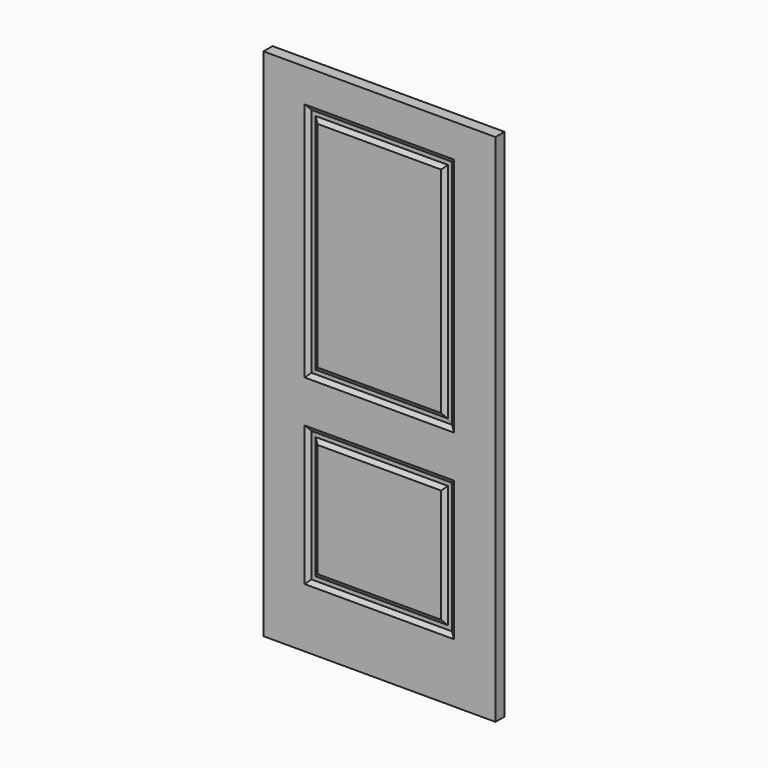
from build123d import *

# Parameters (mm, degrees)
F0_W      = 907.25625
F0_H      = 44.45
F1_DEPTH  = 2012.95
F2_W      = 584.2
F2_H      = 546.1
F3_DEPTH  = 44.451
F8_DEPTH  = 939.8
F9_DEPTH  = 546.1
F11_DEPTH = 44.451
F13_DEPTH = 907.25625
F15_DEPTH = 44.4510000001
F17_W     = 482.6000000008
F17_H     = 44.4500000001
F18_DEPTH = 838.2
F19_W     = 482.6000000007
F19_H     = 44.45
F20_DEPTH = 444.5


with BuildPart() as f1:
    # F0 (on Top) → F1 (new body)
    with BuildSketch(Plane.XY):
        with Locations((-453.628125, 22.225)):
            Rectangle(F0_W, F0_H)
    extrude(amount=F1_DEPTH)

    # F2 (on Front) → F3 (cut, through all)
    with BuildSketch(Plane.XZ):
        Polygon((-745.728125, 1882.775), (-745.728125, 942.975), (-161.528125, 942.975), (-161.528125, 1882.775), (-453.628125, 1882.775), align=None)
        with Locations((-453.628125, 504.825)):
            Rectangle(F2_W, F2_H)
    extrude(amount=-F3_DEPTH, mode=Mode.SUBTRACT)

    # F6 (on face) → F8 (join, through all)
    with BuildSketch(Plane(origin=(0, 0, 1882.775), x_dir=(1, 0, 0), z_dir=(0, 0, -1))):
        Polygon((-694.928125, -22.225), (-694.928125, 0), (-712.3942085743, -10.8310357451), (-720.328125, -10.8310357451), (-728.2620414257, -10.8310357451), (-745.728125, 0), (-745.728125, -22.225), (-745.728125, -44.45), (-728.2620414257, -33.6189642549), (-720.328125, -33.6189642549), (-712.3942085743, -33.6189642549), (-694.928125, -44.45), align=None)
        Polygon((-212.328125, -22.225), (-212.328125, -44.45), (-194.8620414257, -33.6189642549), (-186.928125, -33.6189642549), (-178.9942085743, -33.6189642549), (-161.528125, -44.45), (-161.528125, -22.225), (-161.528125, 0), (-178.9942085743, -10.8310357451), (-186.928125, -10.8310357451), (-194.8620414257, -10.8310357451), (-212.328125, 0), align=None)
    extrude(amount=F8_DEPTH)

    # F7 (on face) → F9 (join, through all)
    with BuildSketch(Plane.XY.offset(231.775)):
        Polygon((-745.728125, 22.225), (-745.728125, 0), (-728.2620414257, 10.8310357451), (-720.328125, 10.8310357451), (-712.3942085743, 10.8310357451), (-694.928125, 0), (-694.928125, 22.225), (-694.928125, 44.45), (-712.3942085743, 33.6189642549), (-720.328125, 33.6189642549), (-728.2620414257, 33.6189642549), (-745.728125, 44.45), align=None)
        Polygon((-212.328125, 44.45), (-212.328125, 22.225), (-212.328125, 0), (-194.8620414257, 10.8310357451), (-186.928125, 10.8310357451), (-178.9942085743, 10.8310357451), (-161.528125, 0), (-161.528125, 22.225), (-161.528125, 44.45), (-178.9942085743, 33.6189642549), (-186.928125, 33.6189642549), (-194.8620414257, 33.6189642549), align=None)
    extrude(amount=F9_DEPTH)

    # F10 (on Front) → F11 (cut, through all)
    with BuildSketch(Plane.XZ):
        Polygon((-745.728125, 1882.775), (-453.628125, 1590.675), (-161.528125, 1882.775), (-212.328125, 1882.775), (-694.928125, 1882.775), align=None)
        Polygon((-161.528125, 942.975), (-453.628125, 1235.075), (-745.728125, 942.975), (-694.928125, 942.975), (-212.328125, 942.975), align=None)
        Polygon((-161.528125, 777.875), (-212.328125, 777.875), (-694.928125, 777.875), (-745.728125, 777.875), (-472.678125, 504.825), (-453.628125, 523.875), (-434.578125, 504.825), align=None)
        Polygon((-161.528125, 231.775), (-434.578125, 504.825), (-453.628125, 485.775), (-472.678125, 504.825), (-745.728125, 231.775), (-694.928125, 231.775), (-212.328125, 231.775), align=None)
        Polygon((-453.628125, 485.775), (-434.578125, 504.825), (-453.628125, 523.875), (-472.678125, 504.825), align=None)
    extrude(amount=-F11_DEPTH, mode=Mode.SUBTRACT)


with BuildPart() as f13:
    # F12 (on Right) → F13 (new body, through all)
    with BuildSketch(Plane.YZ):
        Polygon((44.45, 1882.775), (0, 1882.775), (10.8310357451, 1865.3089164258), (10.8310357451, 1849.4410835743), (0, 1831.975), (44.45, 1831.975), (33.6189642549, 1849.4410835743), (33.6189642549, 1865.3089164256), align=None)
    extrude(amount=-F13_DEPTH)


with BuildPart() as f13b:
    # F12 (on Right) → F13, piece 2 (new body, through all)
    with BuildSketch(Plane.YZ):
        Polygon((10.8310357452, 960.4410835743), (1e-10, 942.9750000002), (44.45, 942.975), (33.6189642548, 960.4410835744), (33.6189642549, 976.3089164258), (44.45, 993.775), (0, 993.775), (10.831035745, 976.308916426), align=None)
    extrude(amount=-F13_DEPTH)


with BuildPart() as f13c:
    # F12 (on Right) → F13, piece 3 (new body, through all)
    with BuildSketch(Plane.YZ):
        Polygon((33.6189642549, 744.5410835742), (33.6189642549, 760.4089164257), (44.4499999998, 777.8749999997), (0, 777.875), (10.831035745, 760.4089164259), (10.8310357451, 744.5410835743), (1e-10, 727.0750000001), (44.45, 727.075), align=None)
    extrude(amount=-F13_DEPTH)


with BuildPart() as f13d:
    # F12 (on Right) → F13, piece 4 (new body, through all)
    with BuildSketch(Plane.YZ):
        Polygon((44.45, 231.7749999998), (33.618964255, 249.241083574), (33.6189642549, 265.1089164257), (44.4499999999, 282.5749999998), (0, 282.575), (10.8310357451, 265.1089164258), (10.8310357451, 249.2410835743), (0, 231.7750000002), align=None)
    extrude(amount=-F13_DEPTH)


with BuildPart() as f15_tool:
    # F14 (on Front) → F15 (new body, through all)
    with BuildSketch(Plane.XZ):
        Polygon((-745.728125, 777.875), (-745.728125, 231.775), (-472.678125, 504.825), align=None)
        Polygon((-161.528125, 777.875), (-434.578125, 504.825), (-161.528125, 231.775), align=None)
        Polygon((-453.628125, 523.875), (-472.678125, 504.825), (-453.628125, 485.775), (-434.578125, 504.825), align=None)
        Polygon((-161.528125, 1882.775), (-453.628125, 1590.675), (-745.728125, 1882.775), (-745.728125, 942.975), (-453.628125, 1235.075), (-161.528125, 942.975), align=None)
    extrude(amount=-F15_DEPTH)


with BuildPart() as f13_1:
    add(f13.part)

    # F15: cut by f15_tool
    add(f15_tool.part, mode=Mode.SUBTRACT)


with BuildPart() as f13b_1:
    add(f13b.part)

    # F15: cut by f15_tool
    add(f15_tool.part, mode=Mode.SUBTRACT)


with BuildPart() as f13c_1:
    add(f13c.part)

    # F15: cut by f15_tool
    add(f15_tool.part, mode=Mode.SUBTRACT)


with BuildPart() as f13d_1:
    add(f13d.part)

    # F15: cut by f15_tool
    add(f15_tool.part, mode=Mode.SUBTRACT)


with BuildPart() as f1_1:
    add(f1.part)

    # F16: union F13, F13b, F13c, F13d
    add(f13_1.part)
    add(f13b_1.part)
    add(f13c_1.part)
    add(f13d_1.part)

    # F17 (on face) → F18 (join, through all)
    with BuildSketch(Plane.XY.offset(993.775)):
        with Locations((-453.6281250004, 22.2249999999)):
            Rectangle(F17_W, F17_H)
    extrude(amount=F18_DEPTH)

    # F19 (on face) → F20 (join, through all)
    with BuildSketch(Plane.XY.offset(282.575)):
        with Locations((-453.6281250003, 22.225)):
            Rectangle(F19_W, F19_H)
    extrude(amount=F20_DEPTH)


solid = f1_1.part
